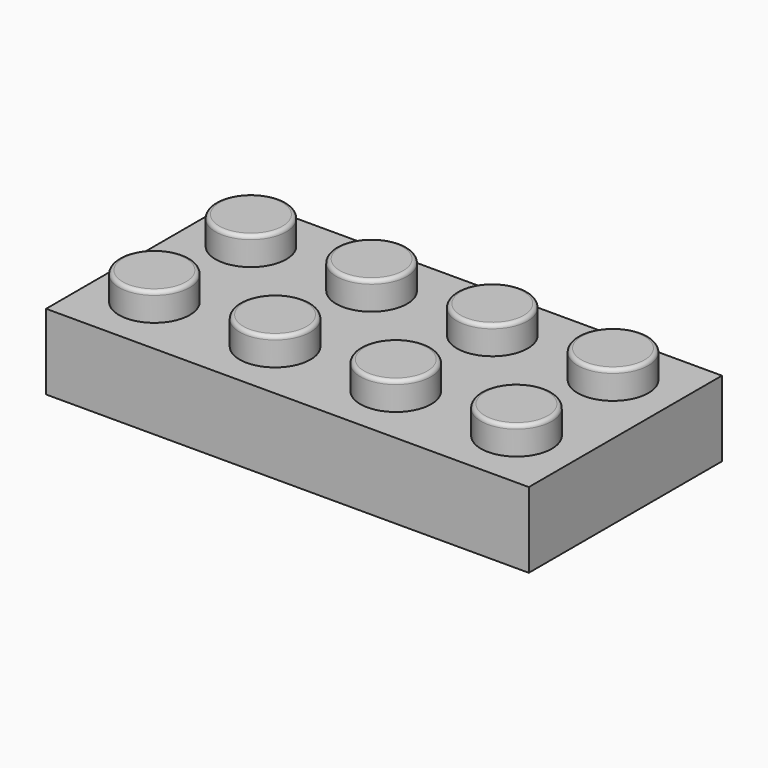
from build123d import *

# Parameters (mm, degrees)
F0_W     = 32.004
F0_H     = 16.002
F1_DEPTH = 5.0038
F2_R     = 2.3495
F3_DEPTH = 1.8542
F4_R     = 0.254
F5_W     = 29.0068
F5_H     = 13.0048
F5_R     = 3.2512
F5_R_2   = 2.4003
F6_DEPTH = 3.5052


with BuildPart() as f1:
    # F0 (on Top) → F1 (new body)
    with BuildSketch(Plane.XY):
        with Locations((16.002, -8.001)):
            Rectangle(F0_W, F0_H)
    extrude(amount=F1_DEPTH)

    # F2 (on face) → F3 (join)
    with BuildSketch(Plane.XY.offset(5.0038)):
        with Locations((3.8989, -3.8989)):
            Circle(F2_R)
        with Locations((11.8999, -3.8989)):
            Circle(F2_R)
        with Locations((19.9009, -3.8989)):
            Circle(F2_R)
        with Locations((27.9019, -3.8989)):
            Circle(F2_R)
        with Locations((27.9019, -11.8999)):
            Circle(F2_R)
        with Locations((19.9009, -11.8999)):
            Circle(F2_R)
        with Locations((11.8999, -11.8999)):
            Circle(F2_R)
        with Locations((3.8989, -11.8999)):
            Circle(F2_R)
    extrude(amount=F3_DEPTH)

    # F4
    f4_edges = [f1.edges().sort_by_distance(p)[0] for p in [
        (1.5494, -11.8999, 6.858),
        (1.5494, -3.8989, 6.858),
        (9.5504, -3.8989, 6.858),
        (9.5504, -11.8999, 6.858),
        (17.5514, -11.8999, 6.858),
        (17.5514, -3.8989, 6.858),
        (25.5524, -3.8989, 6.858),
        (25.5524, -11.8999, 6.858),
    ]]
    fillet(f4_edges, radius=F4_R)

    # F5 (on face) → F6 (cut)
    with BuildSketch(Plane(origin=(0, 0, 0), x_dir=(1, 0, 0), z_dir=(0, 0, -1))):
        with Locations((16.002, 8.001)):
            Rectangle(F5_W, F5_H)
        with Locations((24.003, 7.873771)):
            Circle(F5_R, mode=Mode.SUBTRACT)
        with Locations((8.001, 8.001)):
            Circle(F5_R, mode=Mode.SUBTRACT)
        with Locations((16.002, 8.001)):
            Circle(F5_R, mode=Mode.SUBTRACT)
        with Locations((8.001, 8.001)):
            Circle(F5_R_2)
        with Locations((16.002, 8.001)):
            Circle(F5_R_2)
        with Locations((24.003, 7.873771)):
            Circle(F5_R_2)
    extrude(amount=-F6_DEPTH, mode=Mode.SUBTRACT)


solid = f1.part
